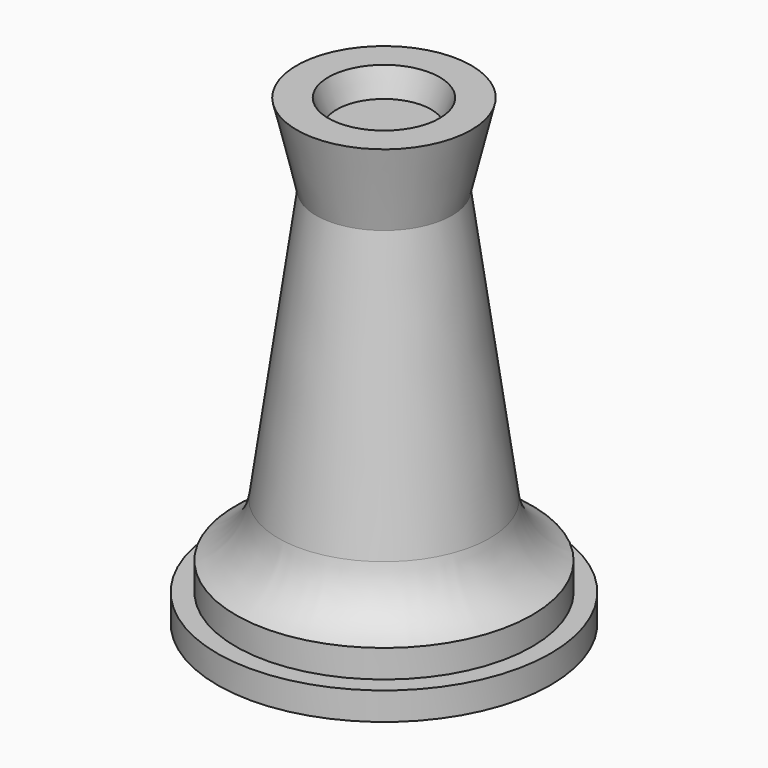
from build123d import *


with BuildPart() as f1:
    # F0 (on Front) → F1 (revolve)
    with BuildSketch(Plane.XZ):
        with BuildLine():
            Line((6.463414, 39.042305), (0, 39.042305))
            Line((0, 39.042305), (0, -9.481955))
            Line((0, -9.481955), (0, -13.346981))
            Line((0, -13.346981), (0, -20.945644))
            Line((0, -20.945644), (22.86, -20.945644))
            Line((22.86, -20.945644), (22.86, -17.135644))
            Line((22.86, -17.135644), (20.32, -17.135644))
            Line((20.32, -17.135644), (20.32, -13.325644))
            ThreePointArc((20.32, -13.325644), (16.40331, -10.427059), (14.490964, -5.945408))
            Line((14.490964, -5.945408), (9.306505, 31.349242))
            Line((9.306505, 31.349242), (11.982355, 42.554356))
            Line((11.982355, 42.554356), (7.6341, 42.554356))
            Line((7.6341, 42.554356), (6.463414, 39.042305))
        make_face()
    revolve(axis=Axis((0, 0, 10.804356), (0, 0, -1)))


solid = f1.part
